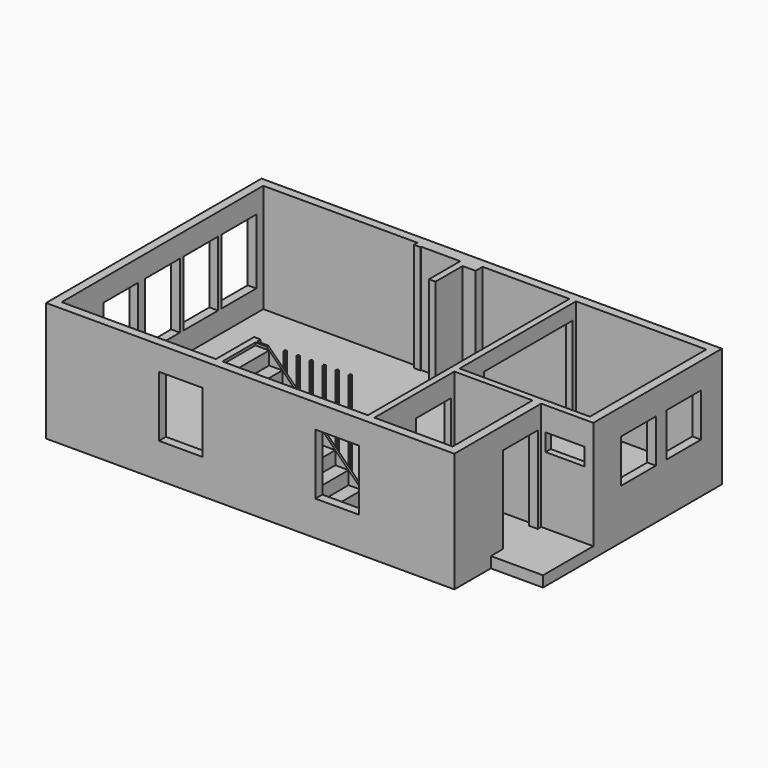
from build123d import *

# Parameters (mm, degrees)
F0_W      = 2400
F0_H      = 1000
F1_DEPTH  = 250
F2_W      = 1800
F2_H      = 2300
F3_DEPTH  = 2500
F4_W      = 1000
F4_H      = 2000
F5_DEPTH  = 9400.001
F6_W      = 1000
F6_H      = 1400
F6_W_2    = 900
F6_H_2    = 400
F7_DEPTH  = 6000
F8_W      = 1000
F8_H      = 1000
F9_DEPTH  = 200
F10_W     = 1000
F10_H     = 1500
F11_DEPTH = 200
F12_W     = 150
F12_H     = 2550
F13_DEPTH = 350
F15_DEPTH = 950
F17_DEPTH = 50
F19_DEPTH = 2500


with BuildPart() as f1:
    # F0 (on Top) → F1 (new body)
    with BuildSketch(Plane.XY):
        Polygon((10600, 0), (0, 0), (0, -6200), (9400, -6200), (9400, -5150), (10600, -5150), align=None)
        with Locations((5100, -5500)):
            Rectangle(F0_W, F0_H, mode=Mode.SUBTRACT)
    extrude(amount=F1_DEPTH)

    # F2 (on face) → F3 (join)
    with BuildSketch(Plane.XY.offset(250)):
        Polygon((10600, 0), (0, 0), (0, -6200), (9400, -6200), (9400, -3700), (10600, -3700), align=None)
        with Locations((8300, -4850)):
            Rectangle(F2_W, F2_H, mode=Mode.SUBTRACT)
        Polygon((200, -6000), (200, -200), (3750, -200), (3750, -300), (3900, -300), (3900, -280), (4800, -280), (4800, -1180), (4950, -1180), (4950, -400), (5250, -400), (5250, -200), (7250, -200), (7250, -300), (7400, -300), (7400, -200), (10400, -200), (10400, -3550), (7400, -3550), (7400, -2850), (7250, -2850), (7250, -6000), (3900, -6000), (3900, -4900), (3750, -4900), (3750, -6000), align=None, mode=Mode.SUBTRACT)
    extrude(amount=F3_DEPTH)

    # F4 (on face) → F5 (cut, through all)
    with BuildSketch(Plane.YZ.offset(9400)):
        with Locations((-4300, 1250)):
            Rectangle(F4_W, F4_H)
    extrude(amount=-F5_DEPTH, mode=Mode.SUBTRACT)

    # F6 (on face) → F7 (cut, through all)
    with BuildSketch(Plane.XZ.offset(6200)):
        with Locations((6700, 1500)):
            Rectangle(F6_W, F6_H)
        with Locations((3100, 1500)):
            Rectangle(F6_W, F6_H)
        with Locations((9950, 2000)):
            Rectangle(F6_W_2, F6_H_2)
    extrude(amount=-F7_DEPTH, mode=Mode.SUBTRACT)

    # F8 (on face) → F9 (cut, through all)
    with BuildSketch(Plane(origin=(10400, 0, 0), x_dir=(0, -1, 0), z_dir=(-1, 0, 0))):
        with Locations((1100, 1650)):
            Rectangle(F8_W, F8_H)
        with Locations((2400, 1650)):
            Rectangle(F8_W, F8_H)
    extrude(amount=-F9_DEPTH, mode=Mode.SUBTRACT)

    # F10 (on face) → F11 (cut, through all)
    with BuildSketch(Plane.YZ.offset(200)):
        with Locations((-3100, 1500)):
            Rectangle(F10_W, F10_H)
        with Locations((-2000, 1500)):
            Rectangle(F10_W, F10_H)
        with Locations((-900, 1500)):
            Rectangle(F10_W, F10_H)
    extrude(amount=-F11_DEPTH, mode=Mode.SUBTRACT)

    # F12 (on face) → F13 (join)
    with BuildSketch(Plane.XY.offset(2750)):
        with Locations((7325, -1575)):
            Rectangle(F12_W, F12_H)
    extrude(amount=-F13_DEPTH)

    # F14 (on face) → F15 (join)
    with BuildSketch(Plane(origin=(0, -6000, 0), x_dir=(-1, 0, 0), z_dir=(0, 1, 0))):
        Polygon((-6350, 555), (-6350, 250), (-6300, 250), (-6300, 505), (-5995, 505), (-5995, 810), (-5690, 810), (-5690, 1115), (-5385, 1115), (-5385, 1420), (-5080, 1420), (-5080, 1725), (-4775, 1725), (-4775, 2030), (-4470, 2030), (-4470, 2335), (-4165, 2335), (-4165, 2640), (-3900, 2640), (-3900, 2690), (-4215, 2690), (-4215, 2385), (-4520, 2385), (-4520, 2080), (-4825, 2080), (-4825, 1775), (-5130, 1775), (-5130, 1470), (-5435, 1470), (-5435, 1165), (-5740, 1165), (-5740, 860), (-6045, 860), (-6045, 555), align=None)
    extrude(amount=F15_DEPTH)

    # F16 (on face) → F17 (join)
    with BuildSketch(Plane(origin=(0, -5050, 0), x_dir=(-1, 0, 0), z_dir=(0, 1, 0))):
        Polygon((-4156.206089, 2748.793911), (-6350, 555), (-6350, 250), (-6300, 250), (-4165, 2335), (-3900, 2593.793911), (-3900, 2748.793911), align=None)
    extrude(amount=F17_DEPTH)

    # F18 (on face) → F19 (join)
    with BuildSketch(Plane.XY.offset(250)):
        with BuildLine():
            Line((6005, -5000), (6045, -5000))
            ThreePointArc((6045, -5000), (6048.535534, -4998.535534), (6050, -4995))
            Line((6050, -4995), (6050, -4955))
            ThreePointArc((6050, -4955), (6048.535534, -4951.464466), (6045, -4950))
            Line((6045, -4950), (6005, -4950))
            ThreePointArc((6005, -4950), (6001.464466, -4951.464466), (6000, -4955))
            Line((6000, -4955), (6000, -4995))
            ThreePointArc((6000, -4995), (6001.464466, -4998.535534), (6005, -5000))
        make_face()
        with BuildLine():
            Line((5705, -5000), (5745, -5000))
            ThreePointArc((5745, -5000), (5748.535534, -4998.535534), (5750, -4995))
            Line((5750, -4995), (5750, -4955))
            ThreePointArc((5750, -4955), (5748.535534, -4951.464466), (5745, -4950))
            Line((5745, -4950), (5705, -4950))
            ThreePointArc((5705, -4950), (5701.464466, -4951.464466), (5700, -4955))
            Line((5700, -4955), (5700, -4995))
            ThreePointArc((5700, -4995), (5701.464466, -4998.535534), (5705, -5000))
        make_face()
        with BuildLine():
            Line((5405, -5000), (5445, -5000))
            ThreePointArc((5445, -5000), (5448.535534, -4998.535534), (5450, -4995))
            Line((5450, -4995), (5450, -4955))
            ThreePointArc((5450, -4955), (5448.535534, -4951.464466), (5445, -4950))
            Line((5445, -4950), (5405, -4950))
            ThreePointArc((5405, -4950), (5401.464466, -4951.464466), (5400, -4955))
            Line((5400, -4955), (5400, -4995))
            ThreePointArc((5400, -4995), (5401.464466, -4998.535534), (5405, -5000))
        make_face()
        with BuildLine():
            Line((5105, -5000), (5145, -5000))
            ThreePointArc((5145, -5000), (5148.535534, -4998.535534), (5150, -4995))
            Line((5150, -4995), (5150, -4955))
            ThreePointArc((5150, -4955), (5148.535534, -4951.464466), (5145, -4950))
            Line((5145, -4950), (5105, -4950))
            ThreePointArc((5105, -4950), (5101.464466, -4951.464466), (5100, -4955))
            Line((5100, -4955), (5100, -4995))
            ThreePointArc((5100, -4995), (5101.464466, -4998.535534), (5105, -5000))
        make_face()
        with BuildLine():
            Line((4805, -5000), (4845, -5000))
            ThreePointArc((4845, -5000), (4848.535534, -4998.535534), (4850, -4995))
            Line((4850, -4995), (4850, -4955))
            ThreePointArc((4850, -4955), (4848.535534, -4951.464466), (4845, -4950))
            Line((4845, -4950), (4805, -4950))
            ThreePointArc((4805, -4950), (4801.464466, -4951.464466), (4800, -4955))
            Line((4800, -4955), (4800, -4995))
            ThreePointArc((4800, -4995), (4801.464466, -4998.535534), (4805, -5000))
        make_face()
        with BuildLine():
            Line((4505, -5000), (4545, -5000))
            ThreePointArc((4545, -5000), (4548.535534, -4998.535534), (4550, -4995))
            Line((4550, -4995), (4550, -4955))
            ThreePointArc((4550, -4955), (4548.535534, -4951.464466), (4545, -4950))
            Line((4545, -4950), (4505, -4950))
            ThreePointArc((4505, -4950), (4501.464466, -4951.464466), (4500, -4955))
            Line((4500, -4955), (4500, -4995))
            ThreePointArc((4500, -4995), (4501.464466, -4998.535534), (4505, -5000))
        make_face()
    extrude(amount=F19_DEPTH)


solid = f1.part
